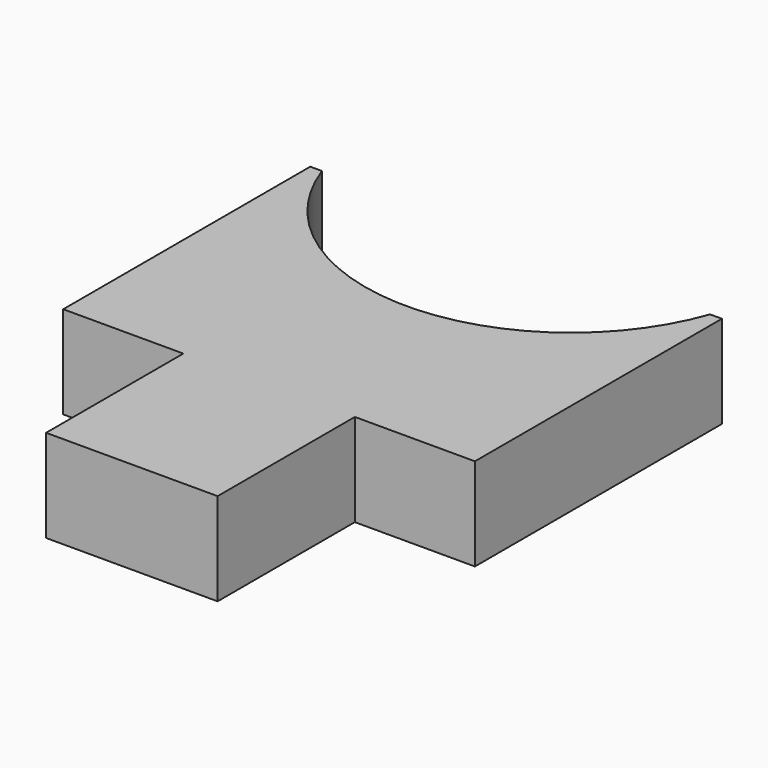
from build123d import *

# Parameters (mm, degrees)
F0_W     = 5
F0_H     = 5
F1_DEPTH = 2.7


with BuildPart() as f1:
    # F0 (on Top) → F1 (new body)
    with BuildSketch(Plane.XY):
        with BuildLine():
            Line((6, -4.5), (6, 4.5))
            Line((6, 4.5), (5.656854, 4.5))
            ThreePointArc((5.656854, 4.5), (0, 0.5), (-5.656854, 4.5))
            Line((-5.656854, 4.5), (-6, 4.5))
            Line((-6, 4.5), (-6, -4.5))
            Line((-6, -4.5), (-2.5, -4.5))
            Line((-2.5, -4.5), (2.5, -4.5))
            Line((2.5, -4.5), (6, -4.5))
        make_face()
        with Locations((0, -7)):
            Rectangle(F0_W, F0_H)
    extrude(amount=F1_DEPTH)


solid = f1.part
